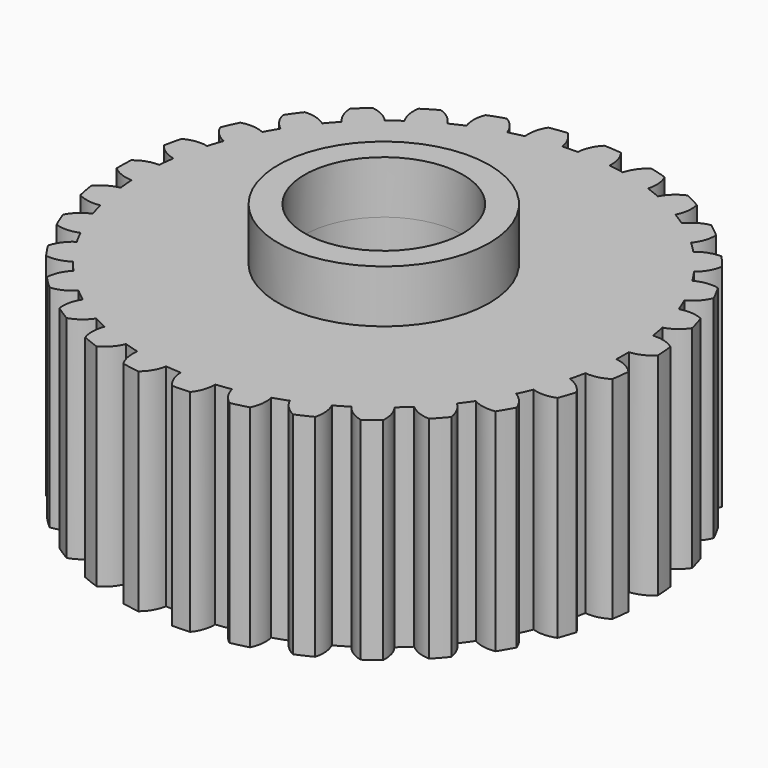
from build123d import *

# Parameters (mm, degrees)
F1_DEPTH = 20
F2_R     = 7.5
F3_DEPTH = 53
F4_R     = 10
F4_R_2   = 7.5
F5_DEPTH = 5


with BuildPart() as f1:
    # F0 (on Top) → F1 (new body)
    with BuildSketch(Plane.XY):
        with BuildLine():
            ThreePointArc((3.189015, 22.747245), (3.069659, 23.862162), (2.572641, 24.867278))
            ThreePointArc((2.572641, 24.867278), (1.739664, 24.939398), (0.90474, 24.983624))
            ThreePointArc((0.90474, 24.983624), (0.27299, 24.057245), (0, 22.969696))
            ThreePointArc((0, 22.969696), (-0.727991, 22.958157), (-1.455251, 22.923551))
            ThreePointArc((-1.455251, 22.923551), (-1.796595, 23.991619), (-2.485767, 24.876112))
            ThreePointArc((-2.485767, 24.876112), (-3.316211, 24.779079), (-4.142946, 24.65433))
            ThreePointArc((-4.142946, 24.65433), (-4.575286, 23.619744), (-4.623766, 22.499505))
            ThreePointArc((-4.623766, 22.499505), (-5.334532, 22.341659), (-6.039939, 22.161365))
            ThreePointArc((-6.039939, 22.161365), (-6.589296, 23.138858), (-7.442408, 23.866516))
            ThreePointArc((-7.442408, 23.866516), (-8.23632, 23.604301), (-9.02102, 23.315686))
            ThreePointArc((-9.02102, 23.315686), (-9.236249, 22.215248), (-9.058234, 21.108182))
            ThreePointArc((-9.058234, 21.108182), (-9.722677, 20.81049), (-10.377351, 20.491889))
            ThreePointArc((-10.377351, 20.491889), (-11.112231, 21.338788), (-12.094356, 21.879821))
            ThreePointArc((-12.094356, 21.879821), (-12.819233, 21.463161), (-13.529772, 21.022494))
            ThreePointArc((-13.529772, 21.022494), (-13.519079, 19.901258), (-13.121857, 18.852687))
            ThreePointArc((-13.121857, 18.852687), (-13.712774, 18.427338), (-14.289913, 17.983474))
            ThreePointArc((-14.289913, 17.983474), (-15.506681, 16.945495), (-16.64827, 15.825361))
            ThreePointArc((-16.64827, 15.825361), (-17.141469, 15.289768), (-17.617445, 14.738813))
            ThreePointArc((-17.617445, 14.738813), (-18.600362, 13.477147), (-19.493101, 12.150143))
            ThreePointArc((-19.493101, 12.150143), (-19.868389, 11.526233), (-20.223716, 10.890743))
            ThreePointArc((-20.223716, 10.890743), (-20.932541, 9.457044), (-21.539882, 7.977496))
            ThreePointArc((-21.539882, 7.977496), (-21.781896, 7.290813), (-22.002025, 6.596805))
            ThreePointArc((-22.002025, 6.596805), (-22.40774, 5.049768), (-22.704817, 3.47825))
            ThreePointArc((-22.704817, 3.47825), (-22.803649, 2.756906), (-22.87957, 2.032793))
            ThreePointArc((-22.87957, 2.032793), (-22.965563, 0.435755), (-22.940215, -1.163396))
            ThreePointArc((-22.940215, -1.163396), (-22.891818, -1.889869), (-22.820422, -2.614442))
            ThreePointArc((-22.820422, -2.614442), (-22.583173, -4.196099), (-22.236437, -5.757413))
            ThreePointArc((-22.236437, -5.757413), (-22.042794, -6.459272), (-21.827003, -7.154642))
            ThreePointArc((-21.827003, -7.154642), (-21.276226, -8.656164), (-20.622298, -10.11572))
            ThreePointArc((-20.622298, -10.11572), (-20.291335, -10.764232), (-19.939984, -11.401929))
            ThreePointArc((-19.939984, -11.401929), (-19.098227, -12.761845), (-18.163879, -14.059889))
            ThreePointArc((-18.163879, -14.059889), (-17.709146, -14.628503), (-17.23662, -15.18242))
            ThreePointArc((-17.23662, -15.18242), (-16.138345, -16.345054), (-14.961828, -17.428444))
            ThreePointArc((-14.961828, -17.428444), (-14.401942, -17.893882), (-13.827587, -18.341341))
            ThreePointArc((-13.827587, -18.341341), (-12.517757, -19.259094), (-11.147239, -20.083476))
            ThreePointArc((-11.147239, -20.083476), (-10.505122, -20.426683), (-9.85245, -20.749366))
            ThreePointArc((-9.85245, -20.749366), (-8.38469, -21.384666), (-6.87628, -21.916289))
            ThreePointArc((-6.87628, -21.916289), (-6.17822, -22.123213), (-5.473953, -22.307909))
            ThreePointArc((-5.473953, -22.307909), (-3.908354, -22.634746), (-2.323806, -22.851846))
            ThreePointArc((-2.323806, -22.851846), (-1.598382, -22.914016), (-0.871352, -22.953163))
            ThreePointArc((-0.871352, -22.953163), (0.727991, -22.958157), (2.323806, -22.851846))
            ThreePointArc((2.323806, -22.851846), (3.046895, -22.766717), (3.766922, -22.658712))
            ThreePointArc((3.766922, -22.658712), (5.334532, -22.341659), (6.87628, -21.916289))
            ThreePointArc((6.87628, -21.916289), (7.567431, -21.687345), (8.250978, -21.436611))
            ThreePointArc((8.250978, -21.436611), (9.722677, -20.81049), (11.147239, -20.083476))
            ThreePointArc((11.147239, -20.083476), (11.778156, -19.720091), (12.397238, -19.336893))
            ThreePointArc((12.397238, -19.336893), (13.712774, -18.427338), (14.961828, -17.428444))
            ThreePointArc((14.961828, -17.428444), (15.506681, -16.945495), (16.035954, -16.44552))
            ThreePointArc((16.035954, -16.44552), (17.141469, -15.289768), (18.163879, -14.059889))
            ThreePointArc((18.163879, -14.059889), (18.600362, -13.477147), (19.018156, -12.880865))
            ThreePointArc((19.018156, -12.880865), (19.868389, -11.526233), (20.622298, -10.11572))
            ThreePointArc((20.622298, -10.11572), (20.932541, -9.457044), (21.221752, -8.788867))
            ThreePointArc((21.221752, -8.788867), (21.781896, -7.290813), (22.236437, -5.757413))
            ThreePointArc((22.236437, -5.757413), (22.40774, -5.049768), (22.556528, -4.337051))
            ThreePointArc((22.556528, -4.337051), (22.803649, -2.756906), (22.940215, -1.163396))
            ThreePointArc((22.940215, -1.163396), (22.965563, -0.435755), (22.967836, 0.292325))
            ThreePointArc((22.967836, 0.292325), (22.891818, 1.889869), (22.704817, 3.47825))
            ThreePointArc((22.704817, 3.47825), (22.583173, 4.196099), (22.438839, 4.909732))
            ThreePointArc((22.438839, 4.909732), (22.042794, 6.459272), (21.539882, 7.977496))
            ThreePointArc((21.539882, 7.977496), (21.276226, 8.656164), (20.991192, 9.326135))
            ThreePointArc((20.991192, 9.326135), (20.291335, 10.764232), (19.493101, 12.150143))
            ThreePointArc((19.493101, 12.150143), (19.098227, 12.761845), (18.684164, 13.360724))
            ThreePointArc((18.684164, 13.360724), (17.709146, 14.628503), (16.64827, 15.825361))
            ThreePointArc((16.64827, 15.825361), (16.138345, 16.345054), (15.612204, 16.848324))
            ThreePointArc((15.612204, 16.848324), (14.401942, 17.893882), (13.121857, 18.852687))
            ThreePointArc((13.121857, 18.852687), (12.517757, 19.259094), (11.901079, 19.646152))
            ThreePointArc((11.901079, 19.646152), (10.505122, 20.426683), (9.058234, 21.108182))
            ThreePointArc((9.058234, 21.108182), (8.38469, 21.384666), (7.702722, 21.639663))
            ThreePointArc((7.702722, 21.639663), (6.17822, 22.123213), (4.623766, 22.499505))
            ThreePointArc((4.623766, 22.499505), (3.908354, 22.634746), (3.189015, 22.747245))
        make_face()
        with BuildLine():
            ThreePointArc((-16.64827, 15.825361), (-15.506681, 16.945495), (-14.289913, 17.983474))
            ThreePointArc((-14.289913, 17.983474), (-15.180229, 18.665106), (-16.251159, 18.997364))
            ThreePointArc((-16.251159, 18.997364), (-16.877325, 18.443316), (-17.484614, 17.86864))
            ThreePointArc((-17.484614, 17.86864), (-17.248436, 16.772507), (-16.64827, 15.825361))
        make_face()
        with BuildLine():
            ThreePointArc((-19.493101, 12.150143), (-18.600362, 13.477147), (-17.617445, 14.738813))
            ThreePointArc((-17.617445, 14.738813), (-18.626747, 15.227273), (-19.742638, 15.337152))
            ThreePointArc((-19.742638, 15.337152), (-20.244457, 14.6684), (-20.723633, 13.983241))
            ThreePointArc((-20.723633, 13.983241), (-20.271641, 12.957088), (-19.493101, 12.150143))
        make_face()
        with BuildLine():
            ThreePointArc((-21.539882, 7.977496), (-20.932541, 9.457044), (-20.223716, 10.890743))
            ThreePointArc((-20.223716, 10.890743), (-21.310684, 11.166033), (-22.425851, 11.049036))
            ThreePointArc((-22.425851, 11.049036), (-22.782779, 10.292957), (-23.114225, 9.525366))
            ThreePointArc((-23.114225, 9.525366), (-22.464922, 8.611205), (-21.539882, 7.977496))
        make_face()
        with BuildLine():
            ThreePointArc((-22.704817, 3.47825), (-22.40774, 5.049768), (-22.002025, 6.596805))
            ThreePointArc((-22.002025, 6.596805), (-23.122159, 6.647655), (-24.190947, 6.308571))
            ThreePointArc((-24.190947, 6.308571), (-24.388371, 5.49612), (-24.558518, 4.677522))
            ThreePointArc((-24.558518, 4.677522), (-23.738486, 3.912777), (-22.704817, 3.47825))
        make_face()
        with BuildLine():
            ThreePointArc((-22.940215, -1.163396), (-22.965563, 0.435755), (-22.87957, 2.032793))
            ThreePointArc((-22.87957, 2.032793), (-23.98701, 1.85712), (-24.965663, 1.309832))
            ThreePointArc((-24.965663, 1.309832), (-24.995501, 0.474271), (-24.997382, -0.361821))
            ThreePointArc((-24.997382, -0.361821), (-24.040194, -0.94584), (-22.940215, -1.163396))
        make_face()
        with BuildLine():
            ThreePointArc((-22.236437, -5.757413), (-22.583173, -4.196099), (-22.820422, -2.614442))
            ThreePointArc((-22.820422, -2.614442), (-23.86983, -3.009445), (-24.718282, -3.742531))
            ThreePointArc((-24.718282, -3.742531), (-24.579312, -4.566995), (-24.41285, -5.38635))
            ThreePointArc((-24.41285, -5.38635), (-23.357694, -5.765734), (-22.236437, -5.757413))
        make_face()
        with BuildLine():
            ThreePointArc((-20.622298, -10.11572), (-21.276226, -8.656164), (-21.827003, -7.154642))
            ThreePointArc((-21.827003, -7.154642), (-22.775417, -7.752803), (-23.458931, -8.641675))
            ThreePointArc((-23.458931, -8.641675), (-23.156842, -9.421287), (-22.828853, -10.190362))
            ThreePointArc((-22.828853, -10.190362), (-21.718927, -10.349578), (-20.622298, -10.11572))
        make_face()
        with BuildLine():
            ThreePointArc((-18.163879, -14.059889), (-19.098227, -12.761845), (-19.939984, -11.401929))
            ThreePointArc((-19.939984, -11.401929), (-20.748575, -12.17876), (-21.239169, -13.187027))
            ThreePointArc((-21.239169, -13.187027), (-20.786329, -13.889871), (-20.31024, -14.577179))
            ThreePointArc((-20.31024, -14.577179), (-19.190985, -14.509709), (-18.163879, -14.059889))
        make_face()
        with BuildLine():
            ThreePointArc((-14.961828, -17.428444), (-16.138345, -16.345054), (-17.23662, -15.18242))
            ThreePointArc((-17.23662, -15.18242), (-17.872284, -16.106118), (-18.149873, -17.192501))
            ThreePointArc((-18.149873, -17.192501), (-17.564822, -17.789802), (-16.960124, -18.367204))
            ThreePointArc((-16.960124, -18.367204), (-15.877361, -18.075812), (-14.961828, -17.428444))
        make_face()
        with BuildLine():
            ThreePointArc((-11.147239, -20.083476), (-12.517757, -19.259094), (-13.827587, -18.341341))
            ThreePointArc((-13.827587, -18.341341), (-14.2643, -19.374089), (-14.317519, -20.494113))
            ThreePointArc((-14.317519, -20.494113), (-13.624208, -20.961416), (-12.915658, -21.405274))
            ThreePointArc((-12.915658, -21.405274), (-11.913716, -20.901888), (-11.147239, -20.083476))
        make_face()
        with BuildLine():
            ThreePointArc((-8.342424, -23.56701), (-7.462323, -22.872239), (-6.87628, -21.916289))
            ThreePointArc((-6.87628, -21.916289), (-8.38469, -21.384666), (-9.85245, -20.749366))
            ThreePointArc((-9.85245, -20.749366), (-10.072333, -21.848882), (-9.899004, -22.956692))
            ThreePointArc((-9.899004, -22.956692), (-9.125818, -23.274867), (-8.342424, -23.56701))
        make_face()
        with BuildLine():
            ThreePointArc((-3.42765, -24.76391), (-2.705421, -23.906197), (-2.323806, -22.851846))
            ThreePointArc((-2.323806, -22.851846), (-3.908354, -22.634746), (-5.473953, -22.307909))
            ThreePointArc((-5.473953, -22.307909), (-5.468004, -23.42918), (-5.075223, -24.479422))
            ThreePointArc((-5.075223, -24.479422), (-4.253815, -24.635443), (-3.42765, -24.76391))
        make_face()
        with BuildLine():
            ThreePointArc((1.627453, -24.946972), (2.162241, -23.961433), (2.323806, -22.851846))
            ThreePointArc((2.323806, -22.851846), (0.727991, -22.958157), (-0.871352, -22.953163))
            ThreePointArc((-0.871352, -22.953163), (-0.639815, -24.050285), (-0.043661, -24.999962))
            ThreePointArc((-0.043661, -24.999962), (0.792339, -24.987441), (1.627453, -24.946972))
        make_face()
        with BuildLine():
            ThreePointArc((6.615927, -24.108702), (6.941381, -23.035685), (6.87628, -21.916289))
            ThreePointArc((6.87628, -21.916289), (5.334532, -22.341659), (3.766922, -22.658712))
            ThreePointArc((3.766922, -22.658712), (4.214569, -23.686768), (4.989688, -24.497))
            ThreePointArc((4.989688, -24.497), (5.806055, -24.31645), (6.615927, -24.108702))
        make_face()
        with BuildLine():
            ThreePointArc((11.333545, -22.283419), (11.43634, -21.166853), (11.147239, -20.083476))
            ThreePointArc((11.147239, -20.083476), (9.722677, -20.81049), (8.250978, -21.436611))
            ThreePointArc((8.250978, -21.436611), (8.896408, -22.353512), (9.818759, -22.991128))
            ThreePointArc((9.818759, -22.991128), (10.58207, -22.64994), (11.333545, -22.283419))
        make_face()
        with BuildLine():
            ThreePointArc((15.587166, -19.54585), (15.463094, -18.431448), (14.961828, -17.428444))
            ThreePointArc((14.961828, -17.428444), (13.712774, -18.427338), (12.397238, -19.336893))
            ThreePointArc((12.397238, -19.336893), (13.214027, -20.1051), (14.245848, -20.543997))
            ThreePointArc((14.245848, -20.543997), (14.924854, -20.05614), (15.587166, -19.54585))
        make_face()
        with BuildLine():
            ThreePointArc((19.202646, -16.008072), (18.856787, -14.941458), (18.163879, -14.059889))
            ThreePointArc((18.163879, -14.059889), (17.141469, -15.289768), (16.035954, -16.44552))
            ThreePointArc((16.035954, -16.44552), (16.990662, -17.033584), (18.089711, -17.255792))
            ThreePointArc((18.089711, -17.255792), (18.656612, -16.641239), (19.202646, -16.008072))
        make_face()
        with BuildLine():
            ThreePointArc((22.031968, -11.814922), (21.47848, -10.839762), (20.622298, -10.11572))
            ThreePointArc((20.622298, -10.11572), (19.868389, -11.526233), (19.018156, -12.880865))
            ThreePointArc((19.018156, -12.880865), (20.071697, -13.26471), (21.192979, -13.261133))
            ThreePointArc((21.192979, -13.261133), (21.624567, -12.545043), (22.031968, -11.814922))
        make_face()
        with BuildLine():
            ThreePointArc((23.959299, -7.138067), (23.220843, -6.294285), (22.236437, -5.757413))
            ThreePointArc((22.236437, -5.757413), (21.781896, -7.290813), (21.221752, -8.788867))
            ThreePointArc((21.221752, -8.788867), (22.330995, -8.952778), (23.428604, -8.723561))
            ThreePointArc((23.428604, -8.723561), (23.707209, -7.935252), (23.959299, -7.138067))
        make_face()
        with BuildLine():
            ThreePointArc((24.905733, -2.168979), (24.012541, -1.491119), (22.940215, -1.163396))
            ThreePointArc((22.940215, -1.163396), (22.803649, -2.756906), (22.556528, -4.337051))
            ThreePointArc((22.556528, -4.337051), (23.676059, -4.274318), (24.705059, -3.828846))
            ThreePointArc((24.705059, -3.828846), (24.819276, -3.000591), (24.905733, -2.168979))
        make_face()
        with BuildLine():
            ThreePointArc((24.832523, 2.888907), (23.821163, 3.373093), (22.704817, 3.47825))
            ThreePointArc((22.704817, 3.47825), (22.891818, 1.889869), (22.967836, 0.292325))
            ThreePointArc((22.967836, 0.292325), (24.051822, 0.579134), (24.970086, 1.222622))
            ThreePointArc((24.970086, 1.222622), (24.915238, 2.056915), (24.832523, 2.888907))
        make_face()
        with BuildLine():
            ThreePointArc((23.742667, 7.828521), (22.654544, 8.09921), (21.539882, 7.977496))
            ThreePointArc((21.539882, 7.977496), (22.042794, 6.459272), (22.438839, 4.909732))
            ThreePointArc((22.438839, 4.909732), (23.442901, 5.408875), (24.212835, 6.224036))
            ThreePointArc((24.212835, 6.224036), (23.991168, 7.030211), (23.742667, 7.828521))
        make_face()
        with BuildLine():
            ThreePointArc((21.680784, 12.447635), (20.560445, 12.493745), (19.493101, 12.150143))
            ThreePointArc((19.493101, 12.150143), (20.291335, 10.764232), (20.991192, 9.326135))
            ThreePointArc((20.991192, 9.326135), (21.874225, 10.017176), (22.464307, 10.970638))
            ThreePointArc((22.464307, 10.970638), (22.084896, 11.715688), (21.680784, 12.447635))
        make_face()
        with BuildLine():
            ThreePointArc((18.731286, 16.557141), (17.624599, 16.376785), (16.64827, 15.825361))
            ThreePointArc((16.64827, 15.825361), (17.709146, 14.628503), (18.684164, 13.360724))
            ThreePointArc((18.684164, 13.360724), (19.410016, 14.215373), (19.796088, 15.2681))
            ThreePointArc((19.796088, 15.2681), (19.274467, 15.921524), (18.731286, 16.557141))
        make_face()
        with BuildLine():
            ThreePointArc((15.014928, 19.988795), (13.9672, 19.589356), (13.121857, 18.852687))
            ThreePointArc((13.121857, 18.852687), (14.401942, 17.893882), (15.612204, 16.848324))
            ThreePointArc((15.612204, 16.848324), (16.151158, 17.831591), (16.317415, 18.940485))
            ThreePointArc((16.317415, 18.940485), (15.674938, 19.475531), (15.014928, 19.988795))
        make_face()
        with BuildLine():
            ThreePointArc((10.683857, 22.602106), (9.737982, 21.999938), (9.058234, 21.108182))
            ThreePointArc((9.058234, 21.108182), (10.505122, 20.426683), (11.901079, 19.646152))
            ThreePointArc((11.901079, 19.646152), (12.23107, 20.717782), (12.170705, 21.837443))
            ThreePointArc((12.170705, 21.837443), (11.433675, 22.232208), (10.683857, 22.602106))
        make_face()
        with BuildLine():
            ThreePointArc((5.915387, 24.290084), (5.11009, 23.509839), (4.623766, 22.499505))
            ThreePointArc((4.623766, 22.499505), (6.17822, 22.123213), (7.702722, 21.639663))
            ThreePointArc((7.702722, 21.639663), (7.810241, 22.755784), (7.525725, 23.840375))
            ThreePointArc((7.525725, 23.840375), (6.724317, 24.078695), (5.915387, 24.290084))
        make_face()
    extrude(amount=F1_DEPTH)

    # F2 (on face) → F3 (cut)
    with BuildSketch(Plane.XY.offset(20)):
        Circle(F2_R)
    extrude(amount=-F3_DEPTH, mode=Mode.SUBTRACT)

    # F4 (on face) → F5 (join)
    with BuildSketch(Plane.XY.offset(20)):
        Circle(F4_R)
        Circle(F4_R_2, mode=Mode.SUBTRACT)
    extrude(amount=F5_DEPTH)


solid = f1.part
